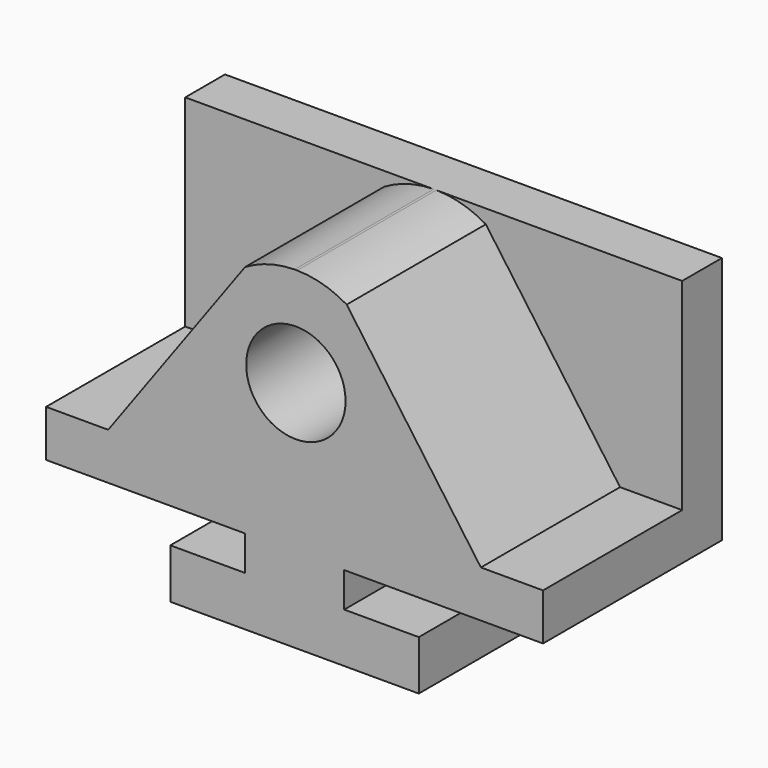
from build123d import *

# Parameters (mm, degrees)
F0_W     = 15.875
F0_H     = 44.45
F0_W_2   = 95.25
F1_DEPTH = 85.09
F3_DEPTH = 44.45
F2_R     = 12.7
F4_DEPTH = 57.151


with BuildPart() as f1:
    # F0 (on Top) → F1 (new body)
    with BuildSketch(Plane.XY):
        with Locations((7.9375, 22.225)):
            Rectangle(F0_W, F0_H)
        with Locations((63.5, 22.225)):
            Rectangle(F0_W_2, F0_H)
        Polygon((0, 57.15), (0, 44.45), (15.875, 44.45), (111.125, 44.45), (127, 44.45), (127, 57.15), align=None)
        with Locations((119.0625, 22.225)):
            Rectangle(F0_W, F0_H)
    extrude(amount=F1_DEPTH)

    # F2 (on face) → F3 (cut)
    with BuildSketch(Plane.XZ):
        with BuildLine():
            Line((63.5, 85.09), (0, 85.09))
            Line((0, 85.09), (0, 33.536568))
            Line((0, 33.536568), (15.875, 33.536568))
            Line((15.875, 33.536568), (50.849151, 81.520875))
            ThreePointArc((50.849151, 81.520875), (56.939695, 84.137978), (63.5, 85.09))
        make_face()
        with BuildLine():
            Line((127, 85.09), (64.172919, 85.09))
            ThreePointArc((64.172919, 85.09), (70.733224, 84.137978), (76.823767, 81.520875))
            Line((76.823767, 81.520875), (111.125, 33.536568))
            Line((111.125, 33.536568), (127, 33.536568))
            Line((127, 33.536568), (127, 85.09))
        make_face()
    extrude(amount=-F3_DEPTH, mode=Mode.SUBTRACT)

    # F2 (on face) → F4 (cut, through all)
    with BuildSketch(Plane.XZ):
        Polygon((127, 0), (127, 21.59), (76.2, 21.59), (76.2, 12.7), (95.25, 12.7), (95.25, 0), align=None)
        Polygon((50.8, 21.59), (0, 21.59), (0, 0), (31.75, 0), (31.75, 12.7), (50.8, 12.7), align=None)
        with Locations((63.836459, 59.692229)):
            Circle(F2_R)
    extrude(amount=-F4_DEPTH, mode=Mode.SUBTRACT)


solid = f1.part
